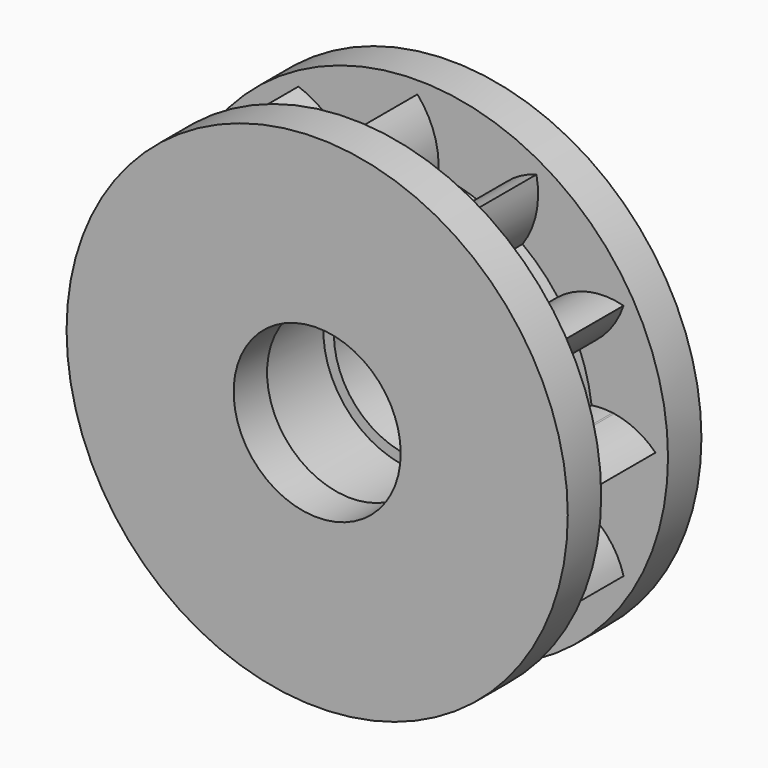
from build123d import *

# Parameters (mm, degrees)
F0_R     = 44.222485
F0_R_2   = 28.624765
F1_DEPTH = 12.7
F2_R     = 76.2
F2_R_2   = 25.4
F3_DEPTH = 12.7
F4_R     = 76.2
F4_R_2   = 25.4
F5_DEPTH = 12.7


with BuildPart() as f1:
    # F0 (on Front) → F1 (new body, symmetric)
    with BuildSketch(Plane.XZ):
        with BuildLine():
            ThreePointArc((52.951212, -6.35), (53.235671, -3.180662), (53.330604, 0))
            ThreePointArc((53.330604, 0), (53.235671, 3.180662), (52.951212, 6.35))
            ThreePointArc((52.951212, 6.35), (51.513408, 13.802976), (49.032095, 20.976345))
            ThreePointArc((49.032095, 20.976345), (46.185658, 26.665302), (42.682095, 31.974867))
            ThreePointArc((42.682095, 31.974867), (37.710432, 37.710432), (31.974867, 42.682095))
            ThreePointArc((31.974867, 42.682095), (26.665302, 46.185658), (20.976345, 49.032094))
            ThreePointArc((20.976345, 49.032094), (13.802976, 51.513408), (6.35, 52.951212))
            ThreePointArc((6.35, 52.951212), (0, 53.330604), (-6.35, 52.951212))
            ThreePointArc((-6.35, 52.951212), (-13.802976, 51.513408), (-20.976345, 49.032095))
            ThreePointArc((-20.976345, 49.032095), (-26.665302, 46.185658), (-31.974867, 42.682095))
            ThreePointArc((-31.974867, 42.682095), (-37.710432, 37.710432), (-42.682095, 31.974867))
            ThreePointArc((-42.682095, 31.974867), (-46.185658, 26.665302), (-49.032094, 20.976345))
            ThreePointArc((-49.032094, 20.976345), (-51.513408, 13.802976), (-52.951212, 6.35))
            ThreePointArc((-52.951212, 6.35), (-53.330604, 0), (-52.951212, -6.35))
            ThreePointArc((-52.951212, -6.35), (-51.513408, -13.802976), (-49.032095, -20.976345))
            ThreePointArc((-49.032095, -20.976345), (-46.185658, -26.665302), (-42.682095, -31.974867))
            ThreePointArc((-42.682095, -31.974867), (-37.710432, -37.710432), (-31.974867, -42.682095))
            ThreePointArc((-31.974867, -42.682095), (-26.665302, -46.185658), (-20.976345, -49.032094))
            ThreePointArc((-20.976345, -49.032094), (-13.802976, -51.513408), (-6.35, -52.951212))
            ThreePointArc((-6.35, -52.951212), (0, -53.330604), (6.35, -52.951212))
            ThreePointArc((6.35, -52.951212), (13.802976, -51.513408), (20.976345, -49.032095))
            ThreePointArc((20.976345, -49.032095), (26.665302, -46.185658), (31.974867, -42.682095))
            ThreePointArc((31.974867, -42.682095), (37.710432, -37.710432), (42.682095, -31.974867))
            ThreePointArc((42.682095, -31.974867), (46.185658, -26.665302), (49.032094, -20.976345))
            ThreePointArc((49.032094, -20.976345), (51.513408, -13.802976), (52.951212, -6.35))
        make_face()
        Circle(F0_R, mode=Mode.SUBTRACT)
        with BuildLine():
            Line((72.380604, 0), (53.330604, 0))
            ThreePointArc((53.330604, 0), (53.235671, -3.180662), (52.951212, -6.35))
            Line((52.951212, -6.35), (57.618118, -6.35))
            ThreePointArc((57.618118, -6.35), (58.493309, -6.255681), (59.364783, -6.131635))
            ThreePointArc((59.364783, -6.131635), (66.307622, -3.989055), (72.380604, 0))
        make_face()
        with BuildLine():
            ThreePointArc((52.951212, 6.35), (53.235671, 3.180662), (53.330604, 0))
            Line((53.330604, 0), (72.380604, 0))
            ThreePointArc((72.380604, 0), (66.608564, 4.174833), (59.825179, 6.35))
            Line((59.825179, 6.35), (59.341823, 6.35))
            ThreePointArc((59.341823, 6.35), (59.338073, 6.384943), (59.334303, 6.419883))
            ThreePointArc((59.334303, 6.419883), (56.140283, 6.610983), (52.951212, 6.35))
        make_face()
        with BuildLine():
            Line((57.618118, -6.35), (52.951212, -6.35))
            ThreePointArc((52.951212, -6.35), (55.284665, -6.455472), (57.618118, -6.35))
        make_face()
        with BuildLine():
            ThreePointArc((42.682095, 31.974867), (46.185658, 26.665302), (49.032095, 20.976345))
            ThreePointArc((49.032095, 20.976345), (57.424424, 27.177577), (62.683442, 36.190302))
            ThreePointArc((62.683442, 36.190302), (52.180088, 36.467695), (42.682095, 31.974867))
        make_face()
        with BuildLine():
            ThreePointArc((59.825179, 6.35), (59.579932, 6.386285), (59.334303, 6.419883))
            ThreePointArc((59.334303, 6.419883), (59.338073, 6.384943), (59.341823, 6.35))
            Line((59.341823, 6.35), (59.825179, 6.35))
        make_face()
        with BuildLine():
            ThreePointArc((62.683442, -36.190302), (57.671995, -26.955434), (49.032094, -20.976345))
            ThreePointArc((49.032094, -20.976345), (46.185658, -26.665302), (42.682095, -31.974867))
            ThreePointArc((42.682095, -31.974867), (52.248684, -36.142222), (62.683442, -36.190302))
        make_face()
        with BuildLine():
            ThreePointArc((59.364783, -6.131635), (58.493309, -6.255681), (57.618118, -6.35))
            Line((57.618118, -6.35), (59.341823, -6.35))
            ThreePointArc((59.341823, -6.35), (59.353403, -6.240828), (59.364783, -6.131635))
        make_face()
        with BuildLine():
            ThreePointArc((20.976345, 49.032094), (26.665302, 46.185658), (31.974867, 42.682095))
            ThreePointArc((31.974867, 42.682095), (36.142222, 52.248684), (36.190302, 62.683442))
            ThreePointArc((36.190302, 62.683442), (26.955434, 57.671995), (20.976345, 49.032094))
        make_face()
        with BuildLine():
            ThreePointArc((36.190302, -62.683442), (36.467695, -52.180088), (31.974867, -42.682095))
            ThreePointArc((31.974867, -42.682095), (26.665302, -46.185658), (20.976345, -49.032095))
            ThreePointArc((20.976345, -49.032095), (27.177577, -57.424424), (36.190302, -62.683442))
        make_face()
        with BuildLine():
            ThreePointArc((-6.35, 52.951212), (0, 53.330604), (6.35, 52.951212))
            ThreePointArc((6.35, 52.951212), (5.17574, 63.319798), (0, 72.380604))
            ThreePointArc((0, 72.380604), (-5.491907, 63.423129), (-6.35, 52.951212))
        make_face()
        with BuildLine():
            ThreePointArc((0, -72.380604), (5.491907, -63.423129), (6.35, -52.951212))
            ThreePointArc((6.35, -52.951212), (0, -53.330604), (-6.35, -52.951212))
            ThreePointArc((-6.35, -52.951212), (-5.17574, -63.319798), (0, -72.380604))
        make_face()
        with BuildLine():
            ThreePointArc((-31.974867, 42.682095), (-26.665302, 46.185658), (-20.976345, 49.032095))
            ThreePointArc((-20.976345, 49.032095), (-27.177577, 57.424424), (-36.190302, 62.683442))
            ThreePointArc((-36.190302, 62.683442), (-36.467695, 52.180088), (-31.974867, 42.682095))
        make_face()
        with BuildLine():
            ThreePointArc((-36.190302, -62.683442), (-26.955434, -57.671995), (-20.976345, -49.032094))
            ThreePointArc((-20.976345, -49.032094), (-26.665302, -46.185658), (-31.974867, -42.682095))
            ThreePointArc((-31.974867, -42.682095), (-36.142222, -52.248684), (-36.190302, -62.683442))
        make_face()
        with BuildLine():
            ThreePointArc((-49.032094, 20.976345), (-46.185658, 26.665302), (-42.682095, 31.974867))
            ThreePointArc((-42.682095, 31.974867), (-52.248684, 36.142222), (-62.683442, 36.190302))
            ThreePointArc((-62.683442, 36.190302), (-57.671995, 26.955434), (-49.032094, 20.976345))
        make_face()
        with BuildLine():
            ThreePointArc((-62.683442, -36.190302), (-52.180088, -36.467695), (-42.682095, -31.974867))
            ThreePointArc((-42.682095, -31.974867), (-46.185658, -26.665302), (-49.032095, -20.976345))
            ThreePointArc((-49.032095, -20.976345), (-57.424424, -27.177577), (-62.683442, -36.190302))
        make_face()
        with BuildLine():
            ThreePointArc((-52.951212, -6.35), (-53.330604, 0), (-52.951212, 6.35))
            ThreePointArc((-52.951212, 6.35), (-63.319798, 5.17574), (-72.380604, 0))
            ThreePointArc((-72.380604, 0), (-63.423129, -5.491907), (-52.951212, -6.35))
        make_face()
        Circle(F0_R)
        Circle(F0_R_2, mode=Mode.SUBTRACT)
    extrude(amount=F1_DEPTH, both=True)

    # F2 (on face) → F3 (join)
    with BuildSketch(Plane.XZ.offset(12.7)):
        Circle(F2_R)
        Circle(F2_R_2, mode=Mode.SUBTRACT)
    extrude(amount=F3_DEPTH)

    # F4 (on face) → F5 (join)
    with BuildSketch(Plane(origin=(0, 12.7, 0), x_dir=(-1, 0, 0), z_dir=(0, 1, 0))):
        Circle(F4_R)
        Circle(F4_R_2, mode=Mode.SUBTRACT)
    extrude(amount=F5_DEPTH)


solid = f1.part
